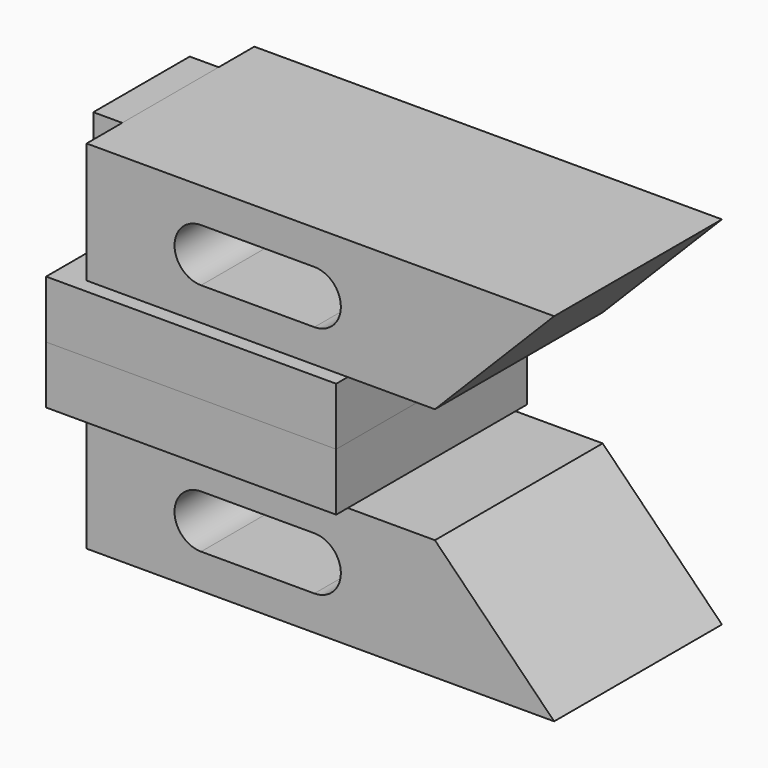
from build123d import *

# Parameters (mm, degrees)
F0_W     = 6.096
F0_H     = 25.442303
F1_DEPTH = 12.7
F2_DEPTH = 22.098
F3_DEPTH = 25.146


with BuildPart() as f1:
    # F0 (on Front) → F1 (new body, symmetric)
    with BuildSketch(Plane.XZ):
        Polygon((6.096, 25.442303), (6.096, 0), (61.146752, 0), (66.096001, 0), (79.514757, 0), (104.648, 25.442303), (86.572984, 25.442303), (69.596, 25.442303), align=None)
        with BuildLine():
            ThreePointArc((30.226, 6.972615), (24.638, 12.560615), (30.226, 18.148615))
            Line((30.226, 18.148615), (54.102, 18.148615))
            ThreePointArc((54.102, 18.148615), (58.053313, 16.511927), (59.69, 12.560615))
            ThreePointArc((59.69, 12.560615), (58.053313, 8.609302), (54.102, 6.972615))
            Line((54.102, 6.972615), (30.226, 6.972615))
        make_face(mode=Mode.SUBTRACT)
        with Locations((3.048, 12.721151)):
            Rectangle(F0_W, F0_H)
    extrude(amount=F1_DEPTH, both=True)

    # F0 (on Front) → F2 (join, symmetric)
    with BuildSketch(Plane.XZ):
        Polygon((6.096, 25.442303), (6.096, 0), (61.146752, 0), (66.096001, 0), (79.514757, 0), (104.648, 25.442303), (86.572984, 25.442303), (69.596, 25.442303), align=None)
        with BuildLine():
            ThreePointArc((30.226, 6.972615), (24.638, 12.560615), (30.226, 18.148615))
            Line((30.226, 18.148615), (54.102, 18.148615))
            ThreePointArc((54.102, 18.148615), (58.053313, 16.511927), (59.69, 12.560615))
            ThreePointArc((59.69, 12.560615), (58.053313, 8.609302), (54.102, 6.972615))
            Line((54.102, 6.972615), (30.226, 6.972615))
        make_face(mode=Mode.SUBTRACT)
    extrude(amount=F2_DEPTH, both=True)

    # F0 (on Front) → F3 (join, symmetric)
    with BuildSketch(Plane.XZ):
        Polygon((6.096, 0), (0, 0), (0, -12.148), (61.146752, -12.148), (61.146752, 0), align=None)
    extrude(amount=F3_DEPTH, both=True)


with BuildPart() as f4_1:
    # F4: instance of F1
    add(f1.part.mirror(Plane(origin=(30.573376, 0, -12.148), x_dir=(1, 0, 0), z_dir=(0, 0, -1))))


solid = Compound([f1.part, f4_1.part])
